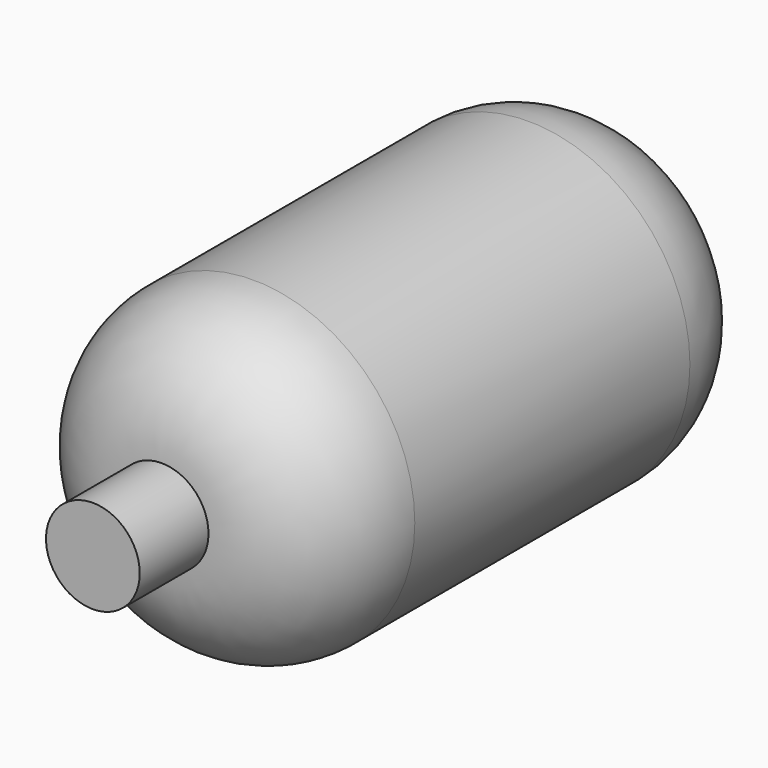
from build123d import *

# Parameters (mm, degrees)
F0_R      = 7.157093
F1_DEPTH  = 25.4
F2_R      = 5.08
F1_FACE_R = 2.077093
F3_DEPTH  = 3.81


with BuildPart() as f1:
    # F0 (on Front) → F1 (new body)
    with BuildSketch(Plane.XZ):
        with Locations((-65.163344, 43.465324)):
            Circle(F0_R)
    extrude(amount=F1_DEPTH)

    # F2
    f2_edges = [f1.edges().sort_by_distance(p)[0] for p in [
        (-72.320437, -25.4, 43.465324),
        (-72.320437, 0, 43.465324),
    ]]
    fillet(f2_edges, radius=F2_R)

    # F1_face (on face) → F3 (join)
    with BuildSketch(Plane(origin=(-65.163344, -25.4, 43.465324), x_dir=(1, 0, 0), z_dir=(0, -1, 0))):
        Circle(F1_FACE_R)
    extrude(amount=F3_DEPTH)


solid = f1.part
